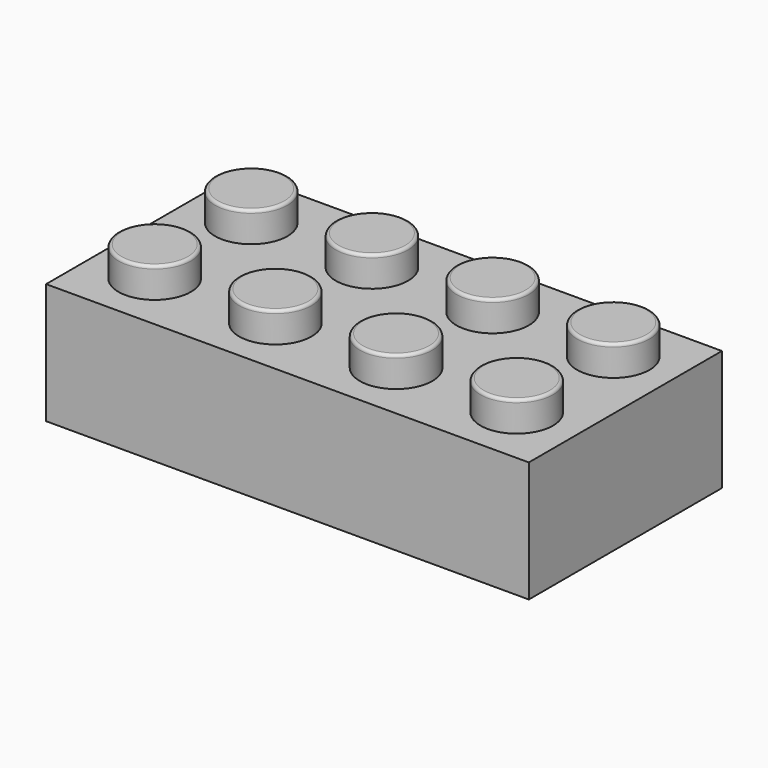
from build123d import *

# Parameters (mm, degrees)
F0_W     = 160
F0_H     = 80
F1_DEPTH = 40
F2_W     = 144
F2_H     = 64
F3_DEPTH = 30
F4_R     = 12
F5_DEPTH = 10
F6_R     = 1


with BuildPart() as f1:
    # F0 (on Top) → F1 (new body)
    with BuildSketch(Plane.XY):
        with Locations((-8.794574, -15.365461)):
            Rectangle(F0_W, F0_H)
    extrude(amount=F1_DEPTH)

    # F2 (on face) → F3 (cut)
    with BuildSketch(Plane(origin=(0, 0, 0), x_dir=(1, 0, 0), z_dir=(0, 0, -1))):
        with Locations((-8.794574, 15.365461)):
            Rectangle(F2_W, F2_H)
    extrude(amount=-F3_DEPTH, mode=Mode.SUBTRACT)

    # F4 (on face) → F5 (join)
    with BuildSketch(Plane.XY.offset(40)):
        with Locations((-68.794574, 4.634539)):
            Circle(F4_R)
        with Locations((-68.794574, -35.365461)):
            Circle(F4_R)
        with Locations((-28.794574, 4.634539)):
            Circle(F4_R)
        with Locations((-28.794574, -35.365461)):
            Circle(F4_R)
        with Locations((11.205426, 4.634539)):
            Circle(F4_R)
        with Locations((11.205426, -35.365461)):
            Circle(F4_R)
        with Locations((51.205426, 4.634539)):
            Circle(F4_R)
        with Locations((51.205426, -35.365461)):
            Circle(F4_R)
    extrude(amount=F5_DEPTH)

    # F6
    f6_edges = [f1.edges().sort_by_distance(p)[0] for p in [
        (-80.794574, 4.634539, 50),
        (-40.794574, 4.634539, 50),
        (-0.794574, 4.634539, 50),
        (39.205426, 4.634539, 50),
        (39.205426, -35.365461, 50),
        (-0.794574, -35.365461, 50),
        (-40.794574, -35.365461, 50),
        (-80.794574, -35.365461, 50),
    ]]
    fillet(f6_edges, radius=F6_R)


solid = f1.part
